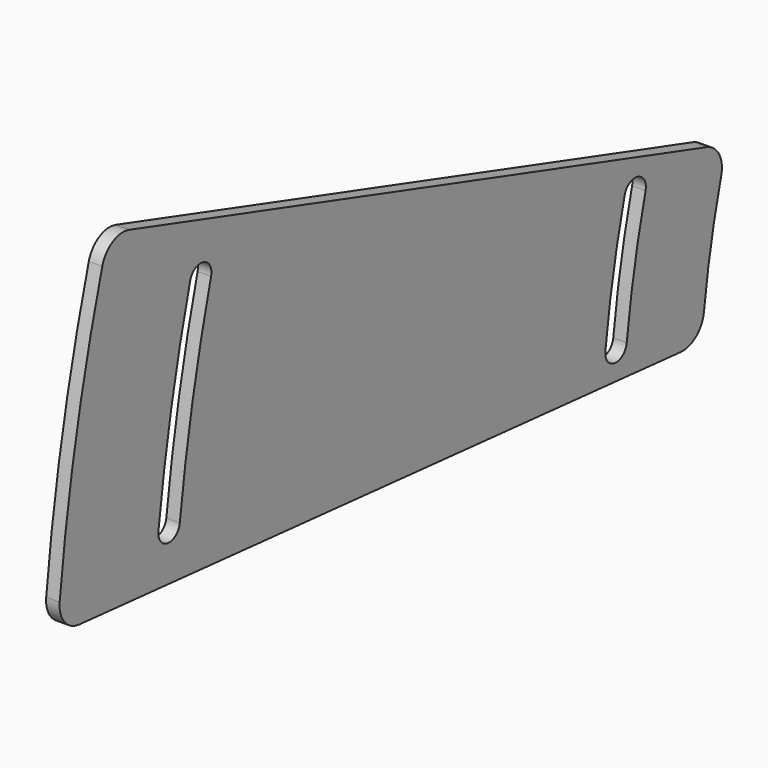
from build123d import *

# Parameters (mm, degrees)
F1_DEPTH = 12.7


with BuildPart() as f1:
    # F0 (on Right) → F1 (new body)
    with BuildSketch(Plane.YZ):
        with BuildLine():
            ThreePointArc((-756.331449, 92.772513), (-747.999914, 145.396454), (-736.011503, 197.309571))
            ThreePointArc((-736.011503, 197.309571), (-738.329131, 216.199371), (-753.118979, 228.176698))
            Line((-753.118979, 228.176698), (-1433.45915, 436.177562))
            ThreePointArc((-1433.45915, 436.177562), (-1453.014386, 434.204399), (-1465.307178, 418.868564))
            ThreePointArc((-1465.307178, 418.868564), (-1495.999828, 290.792909), (-1515.520083, 160.54556))
            ThreePointArc((-1515.520083, 160.54556), (-1509.86731, 141.72146), (-1492.475171, 132.566456))
            Line((-1492.475171, 132.566456), (-783.756253, 70.561585))
            ThreePointArc((-783.756253, 70.561585), (-765.55656, 76.126394), (-756.331449, 92.772513))
        make_face()
        with BuildLine():
            ThreePointArc((-872.551114, 107.095872), (-863.195037, 167.735826), (-849.736677, 227.59911))
            ThreePointArc((-849.736677, 227.59911), (-834.242281, 236.682264), (-825.159127, 221.187868))
            ThreePointArc((-825.159127, 221.187868), (-838.238378, 163.010873), (-847.330904, 104.079087))
            ThreePointArc((-847.330904, 104.079087), (-861.449401, 92.977374), (-872.551114, 107.095872))
        make_face(mode=Mode.SUBTRACT)
        with BuildLine():
            ThreePointArc((-1399.19231, 171.799213), (-1383.799841, 268.983441), (-1361.665637, 364.857208))
            ThreePointArc((-1361.665637, 364.857208), (-1346.111377, 373.837464), (-1337.131121, 358.283204))
            ThreePointArc((-1337.131121, 358.283204), (-1358.86651, 264.136892), (-1373.981638, 168.703732))
            ThreePointArc((-1373.981638, 168.703732), (-1388.134715, 157.646137), (-1399.19231, 171.799213))
        make_face(mode=Mode.SUBTRACT)
    extrude(amount=F1_DEPTH)


solid = f1.part
